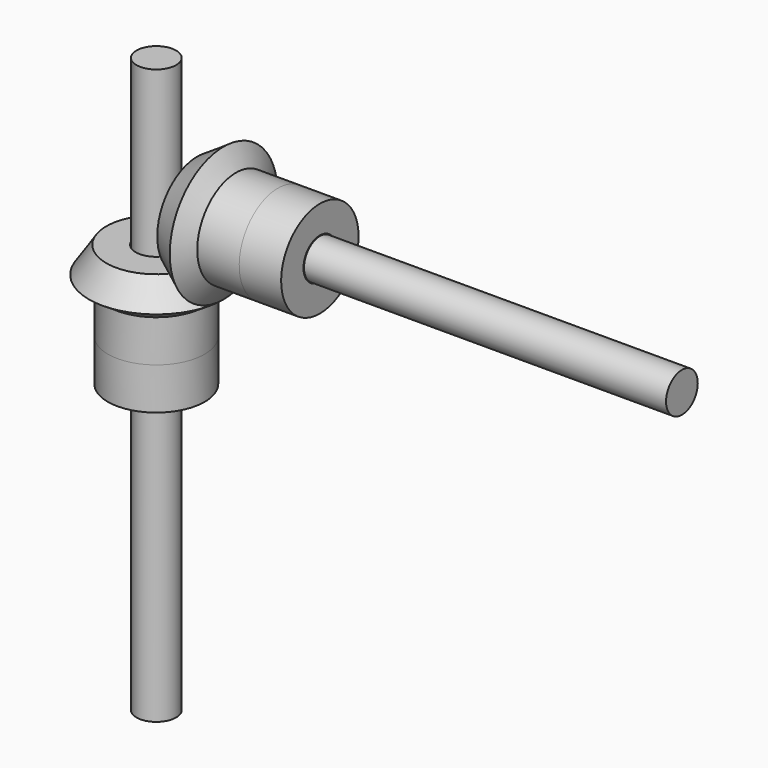
from build123d import *

# Parameters (mm, degrees)
F3_DEPTH = 13
F4_DEPTH = 13
F5_R     = 6.140848801
F6_DEPTH = 89
F7_R     = 6.1418307563
F8_DEPTH = 112.2


with BuildPart() as f1:
    # F0 (on Front) → F1 (revolve)
    with BuildSketch(Plane.XZ):
        Polygon((-15, 0), (-6.35, 0), (-6.35, 25), (-15.4906296031, 25), (-20.85, 16.8441514018), (-15, 13), align=None)
    revolve(axis=Axis((0, 0, 19.2943754885), (0, 0, -1)))

    # F0 (on Front) → F2 (revolve)
    with BuildSketch(Plane.XZ):
        Polygon((37.6941523048, 22.6941500276), (37.6941523048, 31.3441500276), (12.6941523048, 31.3441500276), (12.6941523048, 22.2035204245), (20.850000903, 16.8441500276), (24.6941523048, 22.6941500276), align=None)
    revolve(axis=Axis((18.3997768163, 0, 37.6941500276), (1, 0, 0)))

    # F3 (add): a face of the model
    f3_faces = [f1.faces().sort_by_distance(p)[0] for p in [
        (37.6941523048, 0, 52.2698859589),
    ]]
    extrude(f3_faces, amount=F3_DEPTH)

    # F4 (add): a face of the model
    f4_faces = [f1.faces().sort_by_distance(p)[0] for p in [
        (14.5757359313, 0, 0),
    ]]
    extrude(f4_faces, amount=F4_DEPTH)


with BuildPart() as f6:
    # F5 (on face) → F6 (new body, symmetric)
    with BuildSketch(Plane(origin=(0, 0, -13), x_dir=(1, 0, 0), z_dir=(0, 0, -1))):
        Circle(F5_R)
    extrude(amount=F6_DEPTH, both=True)


with BuildPart() as f8:
    # F7 (on face) → F8 (new body)
    with BuildSketch(Plane.YZ.offset(50.6941523048)):
        with Locations((0, 37.6941500276)):
            Circle(F7_R)
    extrude(amount=F8_DEPTH)


solid = Compound([f1.part, f6.part, f8.part])
